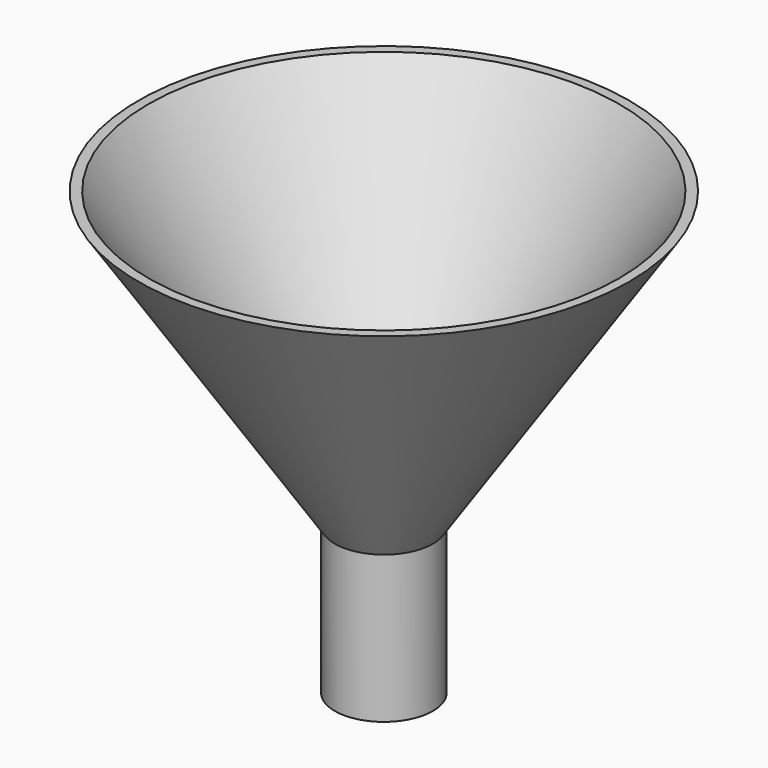
from build123d import *

# Parameters (mm, degrees)
CYLINDER001_R     = 4
CYLINDER001_DEPTH = 15
CYLINDER_R        = 5
CYLINDER_DEPTH    = 15


with BuildPart() as cone001:
    # Cone001 → Cone001 (revolve)
    with BuildSketch(Plane(origin=(0, 0, 15), x_dir=(1, 0, 0), z_dir=(0, -1, 0))):
        Polygon((0, 0), (4, 0), (24, 30), (0, 30), align=None)
    revolve(axis=Axis((0, 0, 15), (0, 0, 1)))


with BuildPart() as cut001:
    # Cone → Cone (revolve)
    with BuildSketch(Plane(origin=(0, 0, 15), x_dir=(1, 0, 0), z_dir=(0, -1, 0))):
        Polygon((0, 0), (5, 0), (25, 30), (0, 30), align=None)
    revolve(axis=Axis((0, 0, 15), (0, 0, 1)))

    # Cut001: cut Cone001
    add(cone001.part, mode=Mode.SUBTRACT)


with BuildPart() as cylinder001:
    # Cylinder001 → Cylinder001 (new body)
    with BuildSketch(Plane.XY):
        Circle(CYLINDER001_R)
    extrude(amount=CYLINDER001_DEPTH)


with BuildPart() as obj1:
    # Cylinder → Cylinder (new body)
    with BuildSketch(Plane.XY):
        Circle(CYLINDER_R)
    extrude(amount=CYLINDER_DEPTH)

    # Cut: cut Cylinder001
    add(cylinder001.part, mode=Mode.SUBTRACT)

    # Fusion: union Cut001
    add(cut001.part)


solid = obj1.part
